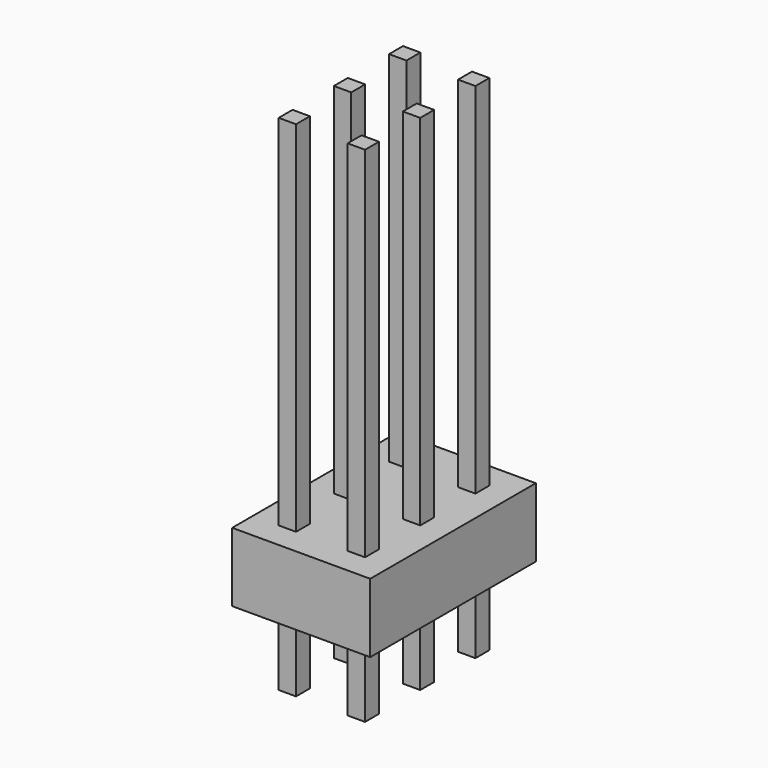
from build123d import *

# Parameters (mm, degrees)
SKETCH_W                          = 5.08
SKETCH_H                          = 7.62
PAD_DEPTH                         = 2.54
SKETCH001_W                       = 0.64
SKETCH001_H                       = 0.64
PAD001_DEPTH                      = 13.208
PAD001_DEPTH_BACK                 = 5.334
SKETCH001_LINEARPATTERN_2_W       = 0.64
SKETCH001_LINEARPATTERN_2_H       = 0.64
PAD001_LINEARPATTERN_2_DEPTH      = 13.208
PAD001_LINEARPATTERN_2_DEPTH_BACK = 5.334
SKETCH001_LINEARPATTERN_3_W       = 0.64
SKETCH001_LINEARPATTERN_3_H       = 0.64
PAD001_LINEARPATTERN_3_DEPTH      = 13.208
PAD001_LINEARPATTERN_3_DEPTH_BACK = 5.334
LINEARPATTERN001_COUNT            = 2
LINEARPATTERN001_PITCH            = 2.54


with BuildPart() as part:
    # Sketch → Pad (new body)
    with BuildSketch(Plane.XY):
        with Locations((1.27, -2.54)):
            Rectangle(SKETCH_W, SKETCH_H)
    extrude(amount=PAD_DEPTH)

    # Sketch001 (on Face6 of Pad) → Pad001 (join, two sides)
    with BuildSketch(Plane.XY.offset(2.54)) as pad001_sk:
        Rectangle(SKETCH001_W, SKETCH001_H)
    pad001 = extrude(amount=PAD001_DEPTH) + extrude(pad001_sk.sketch, amount=-PAD001_DEPTH_BACK)

    # Sketch001 LinearPattern 2 → Pad001 LinearPattern 2 (add, two sides)
    with BuildSketch(Plane(origin=(0, -2.54, 2.54), x_dir=(1, 0, 0), z_dir=(0, 0, 1))) as pad001_linearpattern_2_sk:
        Rectangle(SKETCH001_LINEARPATTERN_2_W, SKETCH001_LINEARPATTERN_2_H)
    pad001_linearpattern_2 = extrude(amount=PAD001_LINEARPATTERN_2_DEPTH) + extrude(pad001_linearpattern_2_sk.sketch, amount=-PAD001_LINEARPATTERN_2_DEPTH_BACK)

    # Sketch001 LinearPattern 3 → Pad001 LinearPattern 3 (add, two sides)
    with BuildSketch(Plane(origin=(0, -5.08, 2.54), x_dir=(1, 0, 0), z_dir=(0, 0, 1))) as pad001_linearpattern_3_sk:
        Rectangle(SKETCH001_LINEARPATTERN_3_W, SKETCH001_LINEARPATTERN_3_H)
    pad001_linearpattern_3 = extrude(amount=PAD001_LINEARPATTERN_3_DEPTH) + extrude(pad001_linearpattern_3_sk.sketch, amount=-PAD001_LINEARPATTERN_3_DEPTH_BACK)

    # LinearPattern001: Pad001, Pad001 LinearPattern 2, Pad001 LinearPattern 3 ×2
    with Locations(*[(i * LINEARPATTERN001_PITCH, 0, 0) for i in range(1, LINEARPATTERN001_COUNT)]):
        add(pad001)
        add(pad001_linearpattern_2)
        add(pad001_linearpattern_3)


solid = part.part
